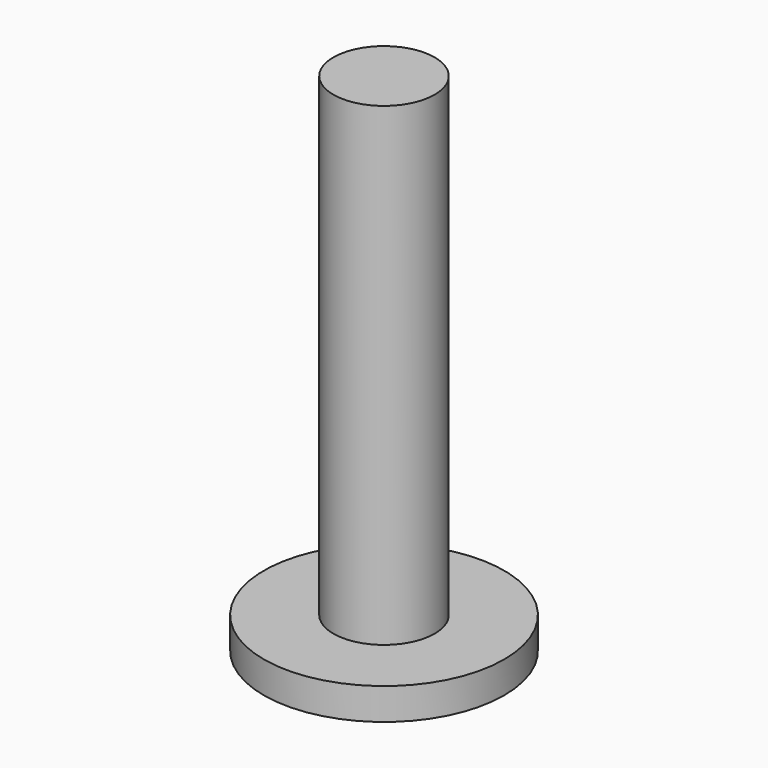
from build123d import *

# Parameters (mm, degrees)
F0_R     = 0.8
F1_DEPTH = 8
F0_R_2   = 1.9
F2_DEPTH = 0.5
F4_DEPTH = 0.4


with BuildPart() as f1:
    # F0 (on Top) → F1 (new body)
    with BuildSketch(Plane.XY):
        Circle(F0_R)
    extrude(amount=F1_DEPTH)

    # F0 (on Top) → F2 (join)
    with BuildSketch(Plane.XY):
        Circle(F0_R_2)
        Circle(F0_R, mode=Mode.SUBTRACT)
    extrude(amount=F2_DEPTH)

    # F3 (on face) → F4 (cut)
    with BuildSketch(Plane(origin=(0, 0, 0), x_dir=(1, 0, 0), z_dir=(0, 0, -1))):
        Polygon((0.521101, -0.900798), (1.040665, 0.000888), (0.519563, 0.901686), (-0.521101, 0.900798), (-1.040665, -0.000888), (-0.519563, -0.901686), align=None)
    extrude(amount=-F4_DEPTH, mode=Mode.SUBTRACT)


solid = f1.part
